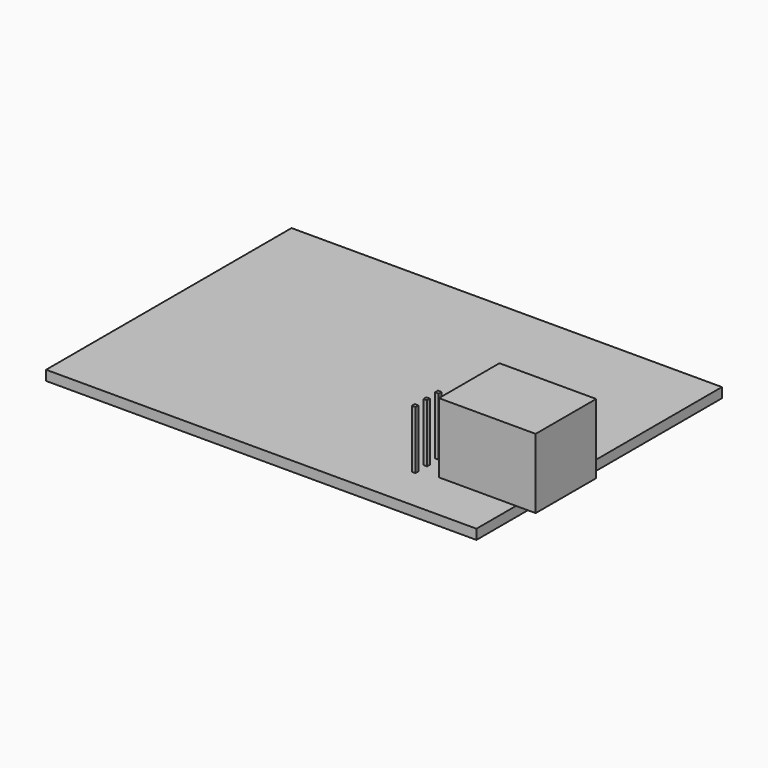
from build123d import *

# Parameters (mm, degrees)
F0_W     = 75.184
F0_H     = 53.594
F1_DEPTH = 1.7272
F2_W     = 16.891
F2_H     = 13.208
F3_DEPTH = 12.192
F4_W     = 0.635
F4_H     = 0.635
F5_DEPTH = 10.16


with BuildPart() as f1:
    # F0 (on Top) → F1 (new body)
    with BuildSketch(Plane.XY):
        with Locations((37.592, 26.797)):
            Rectangle(F0_W, F0_H)
    extrude(amount=F1_DEPTH)

    # F2 (on face) → F3 (join)
    with BuildSketch(Plane.XY.offset(1.7272)):
        with Locations((70.1675, 15.24)):
            Rectangle(F2_W, F2_H)
    extrude(amount=F3_DEPTH)

    # F4 (on face) → F5 (join)
    with BuildSketch(Plane.XY.offset(1.7272)):
        with Locations((58.1025, 7.9375)):
            Rectangle(F4_W, F4_H)
        with Locations((58.1025, 10.4775)):
            Rectangle(F4_W, F4_H)
        with Locations((58.1025, 13.0175)):
            Rectangle(F4_W, F4_H)
    extrude(amount=F5_DEPTH)


solid = f1.part
